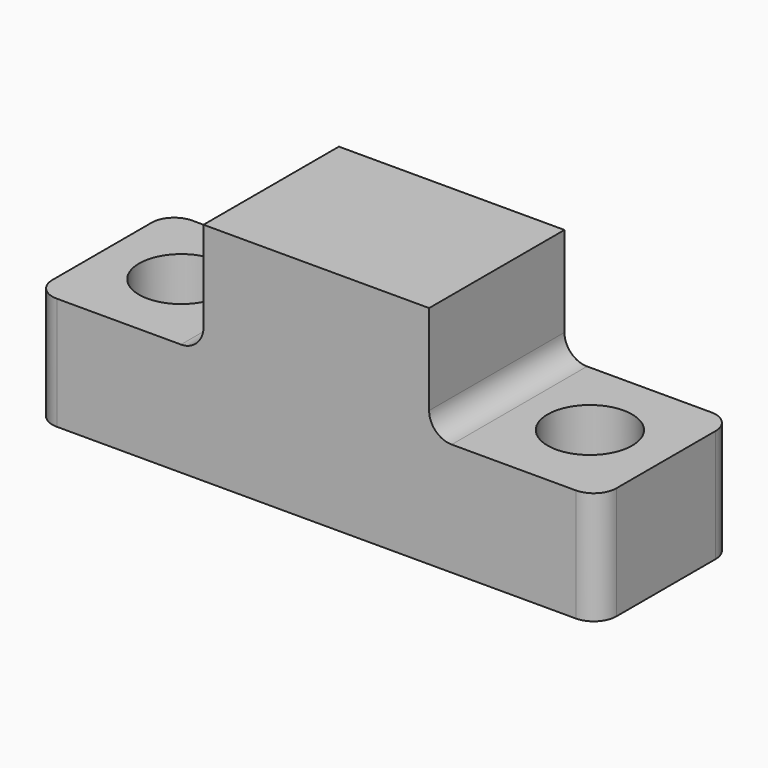
from build123d import *

# Parameters (mm, degrees)
F1_DEPTH = 19.05
F3_R     = 2.54
F6_D     = 9.525


with BuildPart() as f1:
    # F0 (on Front) → F1 (new body)
    with BuildSketch(Plane.XZ):
        Polygon((-31.75, 0), (0, 0), (0, 25.4), (-12.7, 25.4), (-12.7, 12.7), (-31.75, 12.7), align=None)
    extrude(amount=F1_DEPTH)

    # F2: F1 across face


with BuildPart() as f1_1:
    add(f1.part)
    add(f1.part.mirror(Plane(origin=(0, -9.525, 12.7), x_dir=(0, 1, 0), z_dir=(1, 0, 0))))

    # F3
    f3_edges = [f1_1.edges().sort_by_distance(p)[0] for p in [
        (-31.75, -19.05, 6.35),
        (-31.75, 0, 6.35),
        (31.75, -19.05, 6.35),
        (31.75, 0, 6.35),
        (12.7, -9.525, 12.7),
        (-12.7, -9.525, 12.7),
    ]]
    fillet(f3_edges, radius=F3_R)

    # F6 (through all)
    with Locations(Plane.XY.offset(12.954)):
        with Locations((-22.9998156428, -9.2977983877), (22.9998193681, -9.2977983877)):
            Hole(F6_D / 2)


solid = f1_1.part
